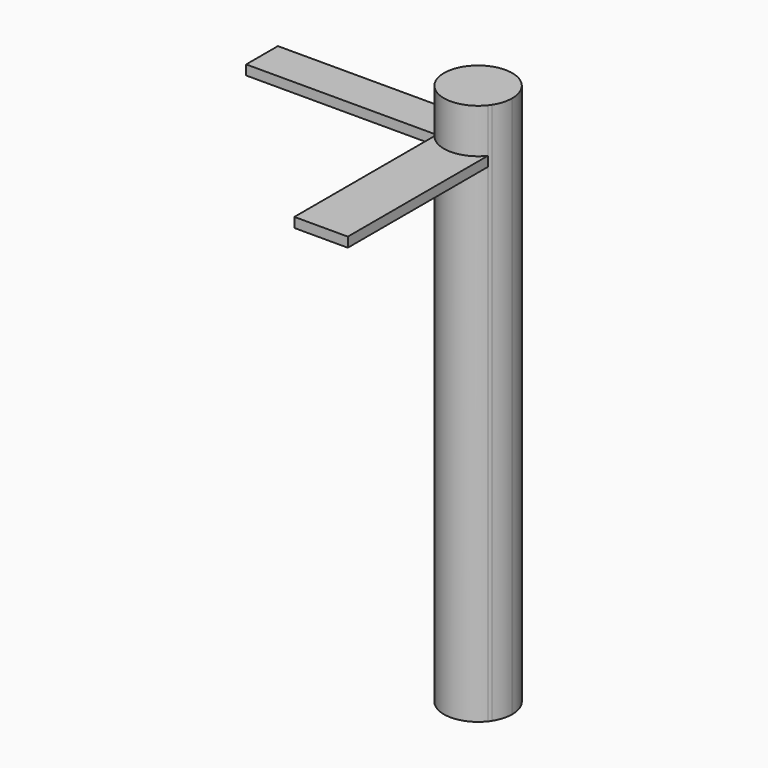
from build123d import *

# Parameters (mm, degrees)
F1_DEPTH      = 10.922
F2_DEPTH      = 2.794
F3_DEPTH      = 12.7
F3_DEPTH_BACK = 142.24


with BuildPart() as f1:
    # F0 (on Top) → F1 (new body)
    with BuildSketch(Plane.XY):
        with BuildLine():
            Line((7.633295, -5.256131), (7.633295, 6.072079))
            Line((7.633295, 6.072079), (-7.633295, 6.072079))
            Line((-7.633295, 6.072079), (-7.633295, -5.256131))
            Line((-7.633295, -5.256131), (-8.216472, -5.256131))
            ThreePointArc((-8.216472, -5.256131), (-7.935378, -5.671606), (-7.633295, -6.072079))
            Line((-7.633295, -6.072079), (7.633295, -6.072079))
            ThreePointArc((7.633295, -6.072079), (7.935378, -5.671606), (8.216472, -5.256131))
            Line((8.216472, -5.256131), (7.633295, -5.256131))
        make_face()
        with BuildLine():
            Line((-7.633295, 6.072079), (7.633295, 6.072079))
            ThreePointArc((7.633295, 6.072079), (0, 9.753837), (-7.633295, 6.072079))
        make_face()
        with BuildLine():
            Line((-7.633295, -5.256131), (-7.633295, 6.072079))
            ThreePointArc((-7.633295, 6.072079), (-9.740938, 0.501464), (-8.216472, -5.256131))
            Line((-8.216472, -5.256131), (-7.633295, -5.256131))
        make_face()
        with BuildLine():
            ThreePointArc((-7.633295, -6.072079), (0, -9.753837), (7.633295, -6.072079))
            Line((7.633295, -6.072079), (-7.633295, -6.072079))
        make_face()
        with BuildLine():
            ThreePointArc((8.216472, -5.256131), (9.36161, -2.738175), (9.753837, 0))
            ThreePointArc((9.753837, 0), (9.208454, 3.215853), (7.633295, 6.072079))
            Line((7.633295, 6.072079), (7.633295, -5.256131))
            Line((7.633295, -5.256131), (8.216472, -5.256131))
        make_face()
    extrude(amount=F1_DEPTH)


with BuildPart() as f2:
    # F0 (on Top) → F2 (new body)
    with BuildSketch(Plane.XY):
        with BuildLine():
            Line((7.633295, -56.065399), (7.633295, -6.072079))
            ThreePointArc((7.633295, -6.072079), (0, -9.753837), (-7.633295, -6.072079))
            Line((-7.633295, -6.072079), (-7.633295, -56.065399))
            Line((-7.633295, -56.065399), (7.633295, -56.065399))
        make_face()
        with BuildLine():
            ThreePointArc((-8.216472, -5.256131), (-9.740938, 0.501464), (-7.633295, 6.072079))
            Line((-7.633295, 6.072079), (-62.05155, 6.072079))
            Line((-62.05155, 6.072079), (-62.05155, -5.256131))
            Line((-62.05155, -5.256131), (-8.216472, -5.256131))
        make_face()
    extrude(amount=-F2_DEPTH)


with BuildPart() as f3:
    # F0 (on Top) → F3 (new body, two sides)
    with BuildSketch(Plane.XY) as f3_sk:
        with BuildLine():
            Line((7.633295, -5.256131), (7.633295, 6.072079))
            Line((7.633295, 6.072079), (-7.633295, 6.072079))
            Line((-7.633295, 6.072079), (-7.633295, -5.256131))
            Line((-7.633295, -5.256131), (-8.216472, -5.256131))
            ThreePointArc((-8.216472, -5.256131), (-7.935378, -5.671606), (-7.633295, -6.072079))
            Line((-7.633295, -6.072079), (7.633295, -6.072079))
            ThreePointArc((7.633295, -6.072079), (7.935378, -5.671606), (8.216472, -5.256131))
            Line((8.216472, -5.256131), (7.633295, -5.256131))
        make_face()
        with BuildLine():
            ThreePointArc((-7.633295, -6.072079), (0, -9.753837), (7.633295, -6.072079))
            Line((7.633295, -6.072079), (-7.633295, -6.072079))
        make_face()
        with BuildLine():
            Line((-7.633295, 6.072079), (7.633295, 6.072079))
            ThreePointArc((7.633295, 6.072079), (0, 9.753837), (-7.633295, 6.072079))
        make_face()
        with BuildLine():
            Line((-7.633295, -5.256131), (-7.633295, 6.072079))
            ThreePointArc((-7.633295, 6.072079), (-9.740938, 0.501464), (-8.216472, -5.256131))
            Line((-8.216472, -5.256131), (-7.633295, -5.256131))
        make_face()
        with BuildLine():
            ThreePointArc((8.216472, -5.256131), (9.36161, -2.738175), (9.753837, 0))
            ThreePointArc((9.753837, 0), (9.208454, 3.215853), (7.633295, 6.072079))
            Line((7.633295, 6.072079), (7.633295, -5.256131))
            Line((7.633295, -5.256131), (8.216472, -5.256131))
        make_face()
    extrude(amount=F3_DEPTH)
    extrude(f3_sk.sketch, amount=-F3_DEPTH_BACK)


solid = Compound([f1.part, f2.part, f3.part])
